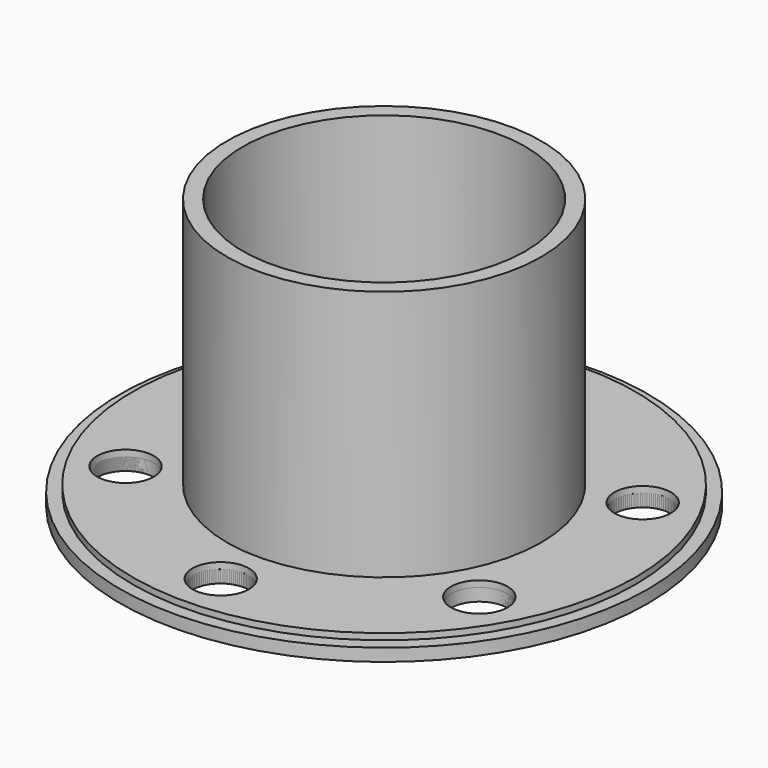
from build123d import *

# Parameters (mm, degrees)
SKETCH_R           = 40
PAD_DEPTH          = 3
SKETCH001_R        = 25
PAD001_DEPTH       = 40
SKETCH002_R        = 22.5
POCKET_DEPTH       = 43.001
SKETCH003_R        = 4.5
POCKET001_DEPTH    = 245.067107
POLARPATTERN_COUNT = 6
SKETCH004_R        = 42
SKETCH004_R_2      = 22.5
SKETCH004_R_3      = 4.5
PAD002_DEPTH       = 2


with BuildPart() as pipe:
    # Sketch → Pad (new body)
    with BuildSketch(Plane.XY):
        Circle(SKETCH_R)
    extrude(amount=PAD_DEPTH)

    # Sketch001 (on Face3 of Pad) → Pad001 (join)
    with BuildSketch(Plane.XY.offset(3)):
        Circle(SKETCH001_R)
    extrude(amount=PAD001_DEPTH)

    # Sketch002 (on Face5 of Pad001) → Pocket (cut, through all)
    with BuildSketch(Plane.XY.offset(43)):
        Circle(SKETCH002_R)
    extrude(amount=-POCKET_DEPTH, mode=Mode.SUBTRACT)

    # Sketch003 (on Face3 of Pocket) → Pocket001 (cut, through all)
    with BuildSketch(Plane.XY.offset(3)):
        with Locations((0, 32.5)):
            Circle(SKETCH003_R)
    pocket001 = extrude(amount=-POCKET001_DEPTH, mode=Mode.SUBTRACT)

    # PolarPattern: Pocket001 ×6 about axis
    polarpattern_axis = Axis((0, 0, 3), (0, 0, 1))
    for i in range(1, POLARPATTERN_COUNT):
        add(pocket001.rotate(polarpattern_axis, i * 360 / POLARPATTERN_COUNT), mode=Mode.SUBTRACT)


with BuildPart() as gasket:
    # Sketch004 → Pad002 (new body)
    with BuildSketch(Plane.XY):
        Circle(SKETCH004_R)
        Circle(SKETCH004_R_2, mode=Mode.SUBTRACT)
        with Locations((0, 32.5)):
            Circle(SKETCH004_R_3, mode=Mode.SUBTRACT)
        with Locations((-28.145826, -16.25)):
            Circle(SKETCH004_R_3, mode=Mode.SUBTRACT)
        with Locations((28.145826, -16.25)):
            Circle(SKETCH004_R_3, mode=Mode.SUBTRACT)
        with Locations((-28.145826, 16.25)):
            Circle(SKETCH004_R_3, mode=Mode.SUBTRACT)
        with Locations((28.145826, 16.25)):
            Circle(SKETCH004_R_3, mode=Mode.SUBTRACT)
        with Locations((0, -32.5)):
            Circle(SKETCH004_R_3, mode=Mode.SUBTRACT)
    extrude(amount=PAD002_DEPTH)


solid = Compound([pipe.part, gasket.part])
